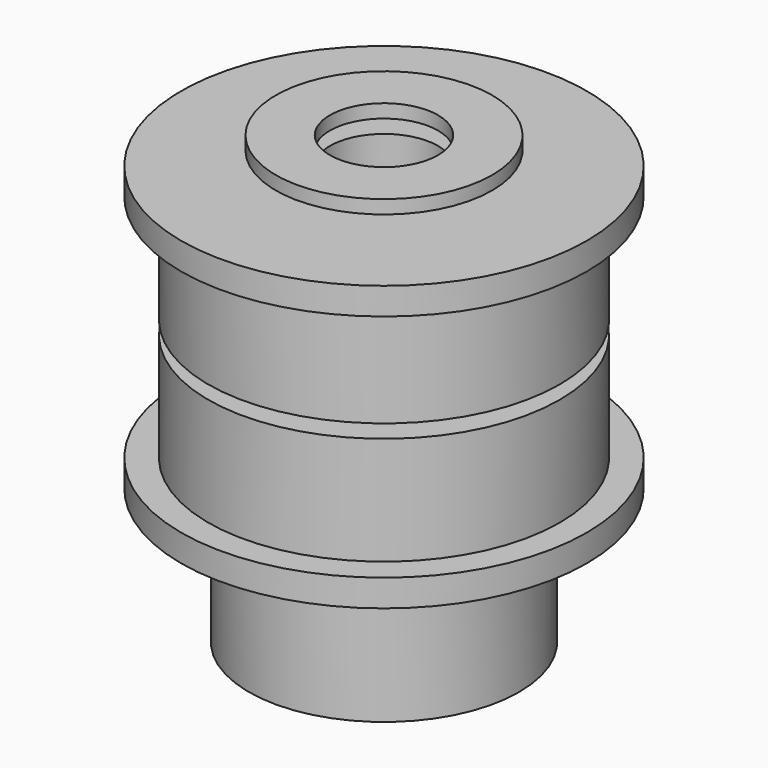
from build123d import *

# Parameters (mm, degrees)
F0_R          = 4
F0_R_2        = 2
F1_DEPTH      = 0.25
F1_DEPTH_BACK = 0.25
F2_R          = 6.5
F2_R_2        = 2
F3_DEPTH      = 4
F4_R          = 7.5
F4_R_2        = 2
F5_DEPTH      = 1
F8_R          = 4
F8_R_2        = 2
F9_DEPTH      = 1
F10_R         = 5
F10_R_2       = 2
F11_DEPTH     = 4


with BuildPart() as f1:
    # F0 (on Top) → F1 (new body, two sides)
    with BuildSketch(Plane.XY) as f1_sk:
        Circle(F0_R)
        Circle(F0_R_2, mode=Mode.SUBTRACT)
    extrude(amount=F1_DEPTH)
    extrude(f1_sk.sketch, amount=-F1_DEPTH_BACK)


with BuildPart() as f3:
    # F2 (on face) → F3 (new body)
    with BuildSketch(Plane.XY.offset(0.25)):
        Circle(F2_R)
        Circle(F2_R_2, mode=Mode.SUBTRACT)
    extrude(amount=F3_DEPTH)

    # F4 (on face) → F5 (join)
    with BuildSketch(Plane.XY.offset(4.25)):
        Circle(F4_R)
        Circle(F4_R_2, mode=Mode.SUBTRACT)
    extrude(amount=F5_DEPTH)


with BuildPart() as f6_1:
    # F6: copy of F1
    add(f1.part.moved(Location((0, 0, 6))))


with BuildPart() as f7_1:
    # F7: instance of F3
    add(f3.part.mirror(Plane.XY))


with BuildPart() as f9:
    # F8 (on face) → F9 (new body)
    with BuildSketch(Plane(origin=(0, 0, -5.25), x_dir=(1, 0, 0), z_dir=(0, 0, -1))):
        Circle(F8_R)
        Circle(F8_R_2, mode=Mode.SUBTRACT)
    extrude(amount=F9_DEPTH)

    # F10 (on face) → F11 (join)
    with BuildSketch(Plane(origin=(0, 0, -6.25), x_dir=(1, 0, 0), z_dir=(0, 0, -1))):
        Circle(F10_R)
        Circle(F10_R_2, mode=Mode.SUBTRACT)
    extrude(amount=F11_DEPTH)


solid = Compound([f1.part, f3.part, f6_1.part, f7_1.part, f9.part])
